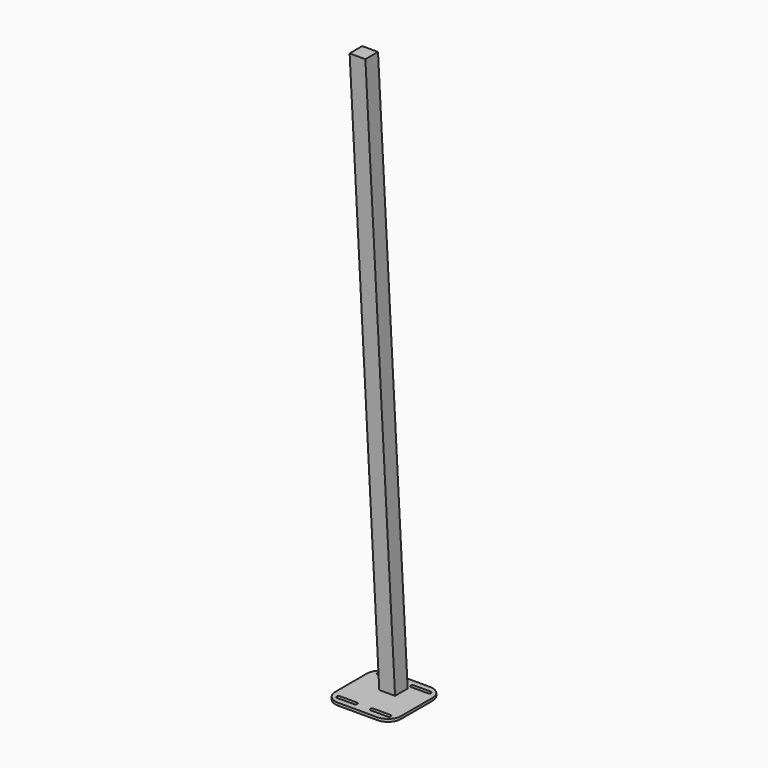
from build123d import *

# Parameters (mm, degrees)
F1_DEPTH = 10
F2_W     = 60
F2_H     = 60


with BuildPart() as f1:
    # F0 (on Top) → F1 (new body)
    with BuildSketch(Plane.XY):
        with BuildLine():
            Line((-200, 0), (-50, 0))
            ThreePointArc((-50, 0), (-14.6446609407, 14.6446609407), (0, 50))
            Line((0, 50), (0, 200))
            ThreePointArc((0, 200), (-14.6446609407, 235.3553390593), (-50, 250))
            Line((-50, 250), (-200, 250))
            ThreePointArc((-200, 250), (-235.3553390593, 235.3553390593), (-250, 200))
            Line((-250, 200), (-250, 50))
            ThreePointArc((-250, 50), (-235.3553390593, 14.6446609407), (-200, 0))
        make_face()
        with BuildLine():
            ThreePointArc((-221, 22), (-228, 29), (-221, 36))
            Line((-221, 36), (-157, 36))
            ThreePointArc((-157, 36), (-150, 29), (-157, 22))
            Line((-157, 22), (-221, 22))
        make_face(mode=Mode.SUBTRACT)
        with BuildLine():
            Line((-93, 36), (-29, 36))
            ThreePointArc((-29, 36), (-22, 29), (-29, 22))
            Line((-29, 22), (-93, 22))
            ThreePointArc((-93, 22), (-100, 29), (-93, 36))
        make_face(mode=Mode.SUBTRACT)
        with BuildLine():
            Line((-157, 214), (-221, 214))
            ThreePointArc((-221, 214), (-228, 221), (-221, 228))
            Line((-221, 228), (-157, 228))
            ThreePointArc((-157, 228), (-150, 221), (-157, 214))
        make_face(mode=Mode.SUBTRACT)
        with BuildLine():
            ThreePointArc((-93, 214), (-100, 221), (-93, 228))
            Line((-93, 228), (-29, 228))
            ThreePointArc((-29, 228), (-22, 221), (-29, 214))
            Line((-29, 214), (-93, 214))
        make_face(mode=Mode.SUBTRACT)
    extrude(amount=F1_DEPTH)

    # F4: sweep along a path in F3
    with BuildLine(Plane.YZ) as f4_path:
        Line((29, 2200), (170, 10))
    # F2 (on face) → F4 (sweep)
    with BuildSketch(Plane.XY.offset(10)):
        with Locations((-125, 170)):
            Rectangle(F2_W, F2_H)
    sweep(path=f4_path.line)


solid = f1.part
